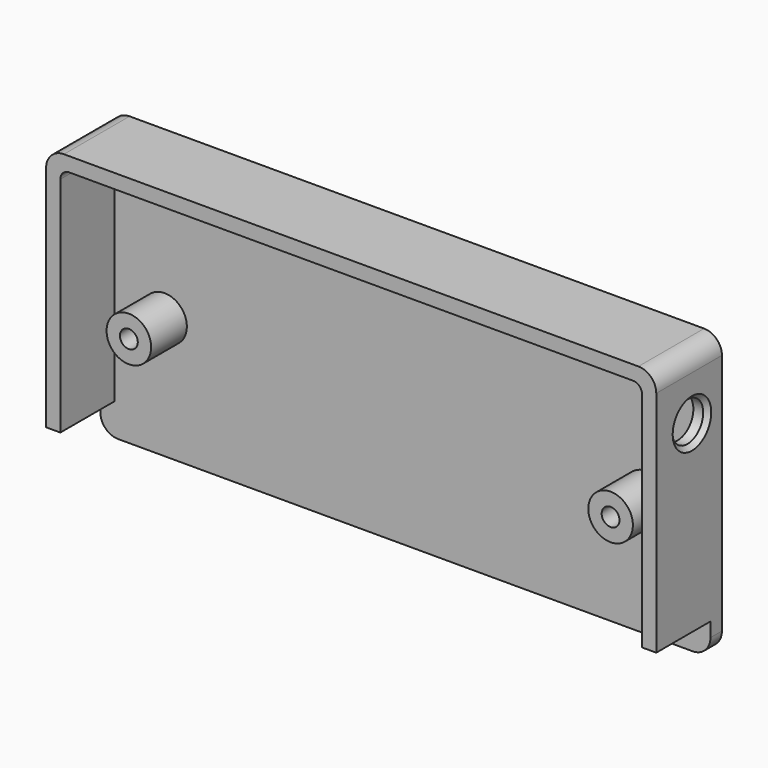
from build123d import *

# Parameters (mm, degrees)
F0_W      = 68.4
F0_H      = 31.2
F1_DEPTH  = 9.2
F3_DEPTH  = 7.6
F4_R      = 2
F5_R      = 2
F6_R      = 2
F7_R      = 2.5
F8_DEPTH  = 5
F10_D     = 2
F10_DEPTH = 4
F10_TIP   = 0.600860619
F12_D     = 2
F12_DEPTH = 4
F12_TIP   = 0.600860619
F13_R     = 2.2
F14_DEPTH = 1.601
F15_SIZE  = 0.5


with BuildPart() as f1:
    # F0 (on Front) → F1 (new body)
    with BuildSketch(Plane.XZ):
        Rectangle(F0_W, F0_H)
    extrude(amount=F1_DEPTH)

    # F2 (on face) → F3 (cut)
    with BuildSketch(Plane.XZ.offset(9.2)):
        with BuildLine():
            ThreePointArc((32.6, 13), (30.8928932188, 12.2928932188), (31.6, 14))
            Line((31.6, 14), (-31.6, 14))
            ThreePointArc((-31.6, 14), (-30.8928932188, 13.7071067812), (-30.6, 13))
            ThreePointArc((-30.6, 13), (-31.6, 12), (-32.6, 13))
            Line((-32.6, 13), (-32.6, -12))
            Line((-32.6, -12), (-34.2, -12))
            Line((-34.2, -12), (-34.2, -15.6))
            Line((-34.2, -15.6), (34.2, -15.6))
            Line((34.2, -15.6), (34.2, -12))
            Line((34.2, -12), (32.6, -12))
            Line((32.6, -12), (32.6, 13))
        make_face()
        with BuildLine():
            ThreePointArc((32.6, 13), (32.3071067812, 13.7071067812), (31.6, 14))
            ThreePointArc((31.6, 14), (30.8928932188, 12.2928932188), (32.6, 13))
        make_face()
        with BuildLine():
            ThreePointArc((-30.6, 13), (-30.8928932188, 13.7071067812), (-31.6, 14))
            ThreePointArc((-31.6, 14), (-32.3071067812, 13.7071067812), (-32.6, 13))
            ThreePointArc((-32.6, 13), (-31.6, 12), (-30.6, 13))
        make_face()
    extrude(amount=-F3_DEPTH, mode=Mode.SUBTRACT)

    # F4
    f4_edges = [f1.edges().sort_by_distance(p)[0] for p in [
        (34.2, -4.6, 15.6),
    ]]
    fillet(f4_edges, radius=F4_R)

    # F5
    f5_edges = [f1.edges().sort_by_distance(p)[0] for p in [
        (-34.2, -4.6, 15.6),
        (-34.2, -0.8, -15.6),
    ]]
    fillet(f5_edges, radius=F5_R)

    # F6
    f6_edges = [f1.edges().sort_by_distance(p)[0] for p in [
        (34.2, -0.8, -15.6),
    ]]
    fillet(f6_edges, radius=F6_R)

    # F7 (on face) → F8 (join)
    with BuildSketch(Plane.XZ.offset(1.6)):
        with Locations((-27, -2)):
            Circle(F7_R)
        with Locations((27, -2)):
            Circle(F7_R)
    extrude(amount=F8_DEPTH)

    # F10
    with Locations(Plane.XZ.offset(6.6)):
        with Locations((-27, -2)):
            Hole(F10_D / 2, depth=F10_DEPTH)
            with Locations((0, 0, -(F10_DEPTH + F10_TIP / 2))):  # 118° drill point
                Cone(0, F10_D / 2, F10_TIP, mode=Mode.SUBTRACT)

    # F12
    with Locations(Plane.XZ.offset(6.6)):
        with Locations((27, -2)):
            Hole(F12_D / 2, depth=F12_DEPTH)
            with Locations((0, 0, -(F12_DEPTH + F12_TIP / 2))):  # 118° drill point
                Cone(0, F12_D / 2, F12_TIP, mode=Mode.SUBTRACT)

    # F13 (on face) → F14 (cut, through all)
    with BuildSketch(Plane(origin=(32.6, 0, 0), x_dir=(0, -1, 0), z_dir=(-1, 0, 0))):
        with Locations((4.2, 8.6)):
            Circle(F13_R)
    extrude(amount=-F14_DEPTH, mode=Mode.SUBTRACT)

    # F15
    f15_edges = [f1.edges().sort_by_distance(p)[0] for p in [
        (34.2, -2, 8.6),
    ]]
    chamfer(f15_edges, length=F15_SIZE)


solid = f1.part
